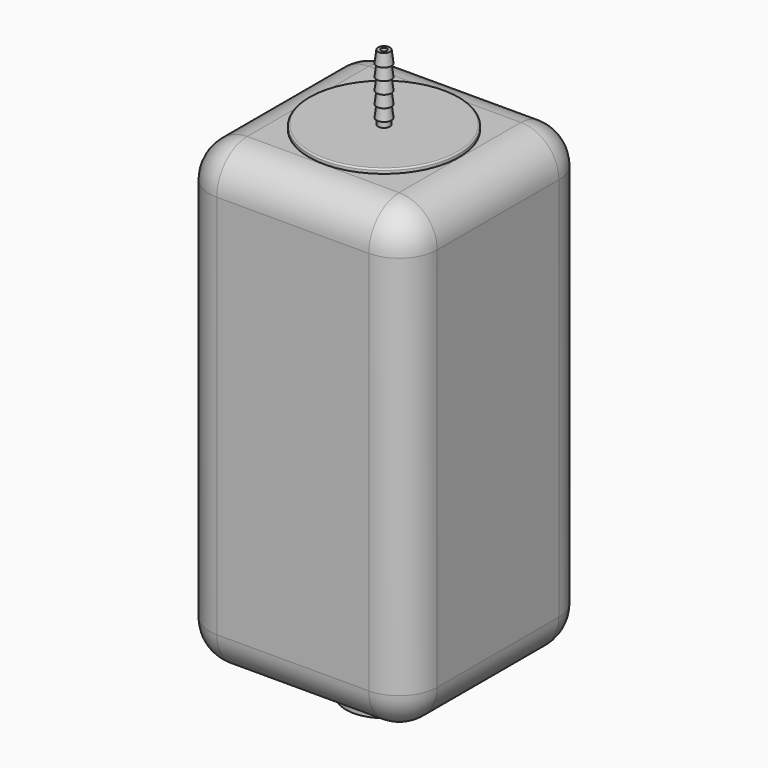
from build123d import *

# Parameters (mm, degrees)
F1_DEPTH  = 308.2
F2_R      = 25.4
F3_R      = 25.4
F3_R_2    = 21.797029
F4_DEPTH  = 25
F5_R      = 21.797029
F6_DEPTH  = 25
F9_R      = 2
F10_DEPTH = 380.200527
F11_R     = 1


with BuildPart() as f1:
    # F0 (on Top) → F1 (new body)
    with BuildSketch(Plane.XY):
        with BuildLine():
            Line((-50.8, -76.2), (50.8, -76.2))
            ThreePointArc((50.8, -76.2), (68.760512, -68.760512), (76.2, -50.8))
            Line((76.2, -50.8), (76.2, 50.8))
            ThreePointArc((76.2, 50.8), (68.760512, 68.760512), (50.8, 76.2))
            Line((50.8, 76.2), (-50.8, 76.2))
            ThreePointArc((-50.8, 76.2), (-68.760512, 68.760512), (-76.2, 50.8))
            Line((-76.2, 50.8), (-76.2, -50.8))
            ThreePointArc((-76.2, -50.8), (-68.760512, -68.760512), (-50.8, -76.2))
        make_face()
    extrude(amount=F1_DEPTH)

    # F2
    f2_edges = [f1.edges().sort_by_distance(p)[0] for p in [
        (0, -76.2, 308.2),
        (0, -76.2, 0),
    ]]
    fillet(f2_edges, radius=F2_R)

    # F3 (on face) → F4 (join)
    with BuildSketch(Plane(origin=(0, 0, 0), x_dir=(1, 0, 0), z_dir=(0, 0, -1))):
        Circle(F3_R)
        Circle(F3_R_2, mode=Mode.SUBTRACT)
    extrude(amount=F4_DEPTH)

    # F5 (on face) → F6 (cut)
    with BuildSketch(Plane(origin=(0, 0, 0), x_dir=(1, 0, 0), z_dir=(0, 0, -1))):
        Circle(F5_R)
    extrude(amount=-F6_DEPTH, mode=Mode.SUBTRACT)

    # F7 (on Front) → F8 (revolve)
    with BuildSketch(Plane.XZ):
        Polygon((-50.210128, 308.2), (0, 308.2), (0, 355.199527), (-4, 355.199527), (-5, 347.199622), (-4, 347.199622), (-5, 339.199716), (-4, 339.199716), (-5, 331.199811), (-4, 331.199811), (-5, 323.199905), (-4, 323.199905), (-5, 315.2), (-4, 315.2), (-4, 311.2), (-50.210128, 311.2), align=None)
    revolve(axis=Axis((0, 0, 331.699764), (0, 0, -1)))

    # F9 (on face) → F10 (cut, through all)
    with BuildSketch(Plane.XY.offset(355.199527)):
        Circle(F9_R)
    extrude(amount=-F10_DEPTH, mode=Mode.SUBTRACT)

    # F11
    f11_edges = [f1.edges().sort_by_distance(p)[0] for p in [
        (50.210128, 0, 311.2),
    ]]
    fillet(f11_edges, radius=F11_R)


solid = f1.part
